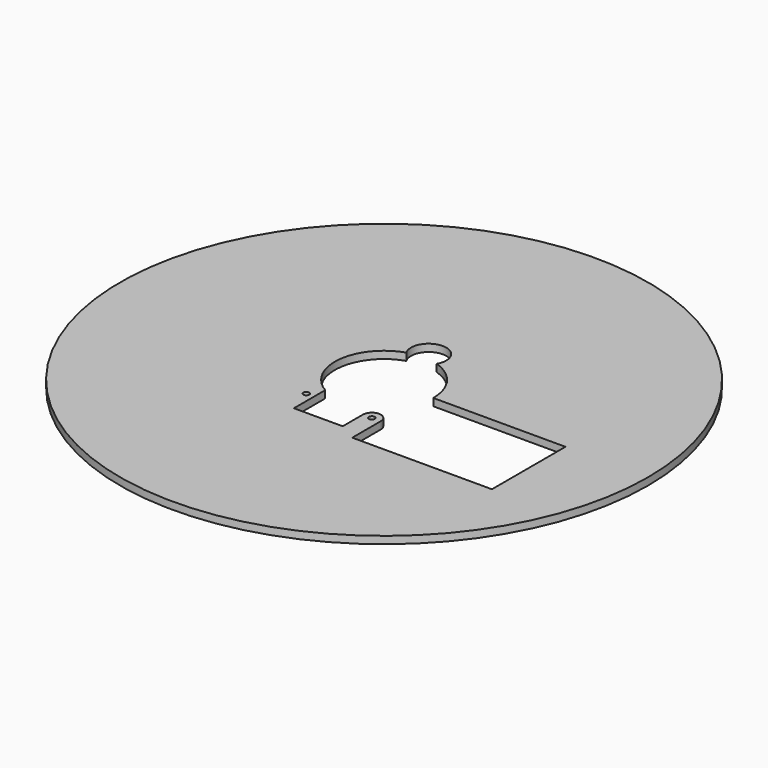
from build123d import *

# Parameters (mm, degrees)
F0_R     = 228.6
F1_DEPTH = 6.35
F2_R     = 2.5146
F3_DEPTH = 6.35
F5_DEPTH = 6.35


with BuildPart() as f1:
    # F0 (on Top) → F1 (new body)
    with BuildSketch(Plane.XY):
        Circle(F0_R)
    extrude(amount=F1_DEPTH)

    # F2 (on face) → F3 (cut, through all)
    with BuildSketch(Plane.XY.offset(6.35)):
        with Locations((0, 48.7172)):
            Circle(F2_R)
        with Locations((28.3972, -48.744956)):
            Circle(F2_R)
        with Locations((-28.3972, -48.744956)):
            Circle(F2_R)
    extrude(amount=-F3_DEPTH, mode=Mode.SUBTRACT)

    # F4 (on face) → F5 (cut, through all)
    with BuildSketch(Plane.XY.offset(6.35)):
        with BuildLine():
            Line((157.075703, 0), (42.606701, 0))
            ThreePointArc((42.606701, 0), (34.459901, 25.056859), (13.134991, 40.531506))
            ThreePointArc((13.134991, 40.531506), (0, 63.5), (-13.134991, 40.531506))
            ThreePointArc((-13.134991, 40.531506), (-42.352335, 4.648728), (-21.614071, -36.717338))
            Line((-21.614071, -36.717338), (-21.614071, -70.620485))
            Line((-21.614071, -70.620485), (20.651158, -70.620485))
            Line((20.651158, -70.620485), (20.651158, -48.744956))
            ThreePointArc((20.651158, -48.744956), (28.382287, -40.998928), (36.143185, -48.715129))
            ThreePointArc((36.143185, -48.715129), (36.143242, -48.744956), (36.143185, -48.774783))
            Line((36.143185, -48.774783), (36.143185, -79.606533))
            Line((36.143185, -79.606533), (157.075703, -79.606533))
            Line((157.075703, -79.606533), (157.075703, 0))
        make_face()
    extrude(amount=-F5_DEPTH, mode=Mode.SUBTRACT)


solid = f1.part
